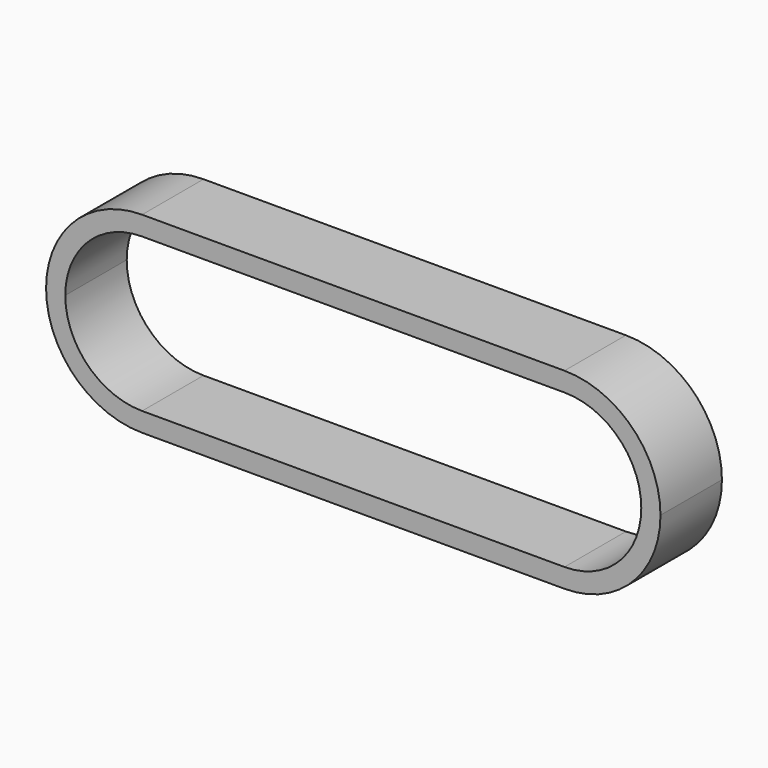
from build123d import *

# Parameters (mm, degrees)
F1_DEPTH = 25.4


with BuildPart() as f1:
    # F0 (on Front) → F1 (new body)
    with BuildSketch(Plane.XZ):
        with BuildLine():
            Line((69.85, 31.75), (-69.85, 31.75))
            ThreePointArc((-69.85, 31.75), (-92.30064, 22.45064), (-101.6, 0))
            ThreePointArc((-101.6, 0), (-92.30064, -22.45064), (-69.85, -31.75))
            Line((-69.85, -31.75), (69.85, -31.75))
            ThreePointArc((69.85, -31.75), (92.30064, -22.45064), (101.6, 0))
            ThreePointArc((101.6, 0), (92.30064, 22.45064), (69.85, 31.75))
        make_face()
        with BuildLine():
            Line((-69.85, 25.4), (69.85, 25.4))
            ThreePointArc((69.85, 25.4), (87.810512, 17.960512), (95.25, 0))
            ThreePointArc((95.25, 0), (87.810512, -17.960512), (69.85, -25.4))
            Line((69.85, -25.4), (-69.85, -25.4))
            ThreePointArc((-69.85, -25.4), (-87.810512, -17.960512), (-95.25, 0))
            ThreePointArc((-95.25, 0), (-87.810512, 17.960512), (-69.85, 25.4))
        make_face(mode=Mode.SUBTRACT)
    extrude(amount=F1_DEPTH)


solid = f1.part
